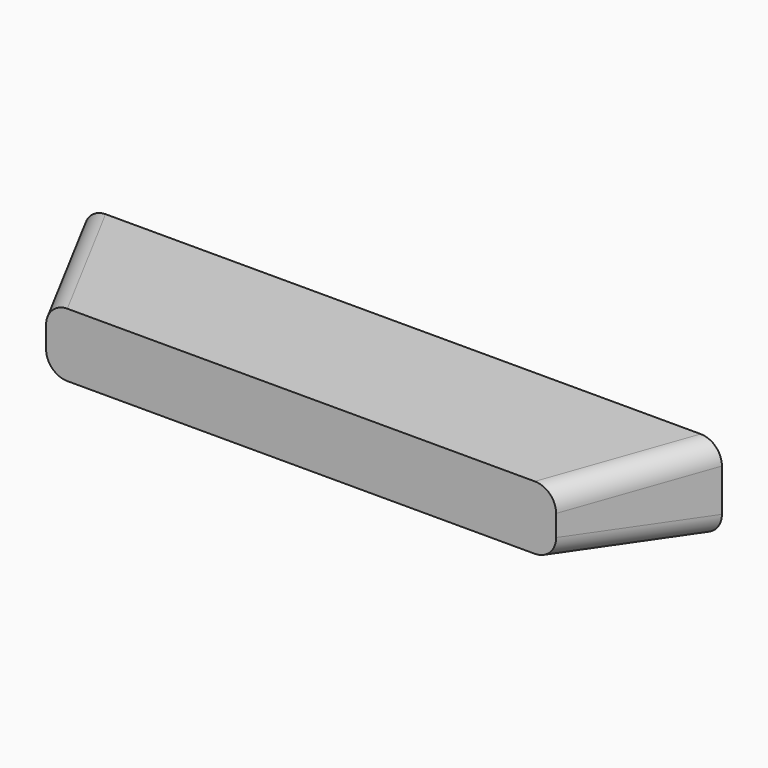
from build123d import *


with BuildPart() as f3:
    # F0 (on Front) → F3 section 0
    with BuildSketch(Plane.XZ):
        with BuildLine():
            ThreePointArc((19.05, 1.27), (18.678026, 2.168026), (17.78, 2.54))
            Line((17.78, 2.54), (-17.78, 2.54))
            ThreePointArc((-17.78, 2.54), (-18.678026, 2.168026), (-19.05, 1.27))
            Line((-19.05, 1.27), (-19.05, -1.27))
            ThreePointArc((-19.05, -1.27), (-18.678026, -2.168026), (-17.78, -2.54))
            Line((-17.78, -2.54), (17.78, -2.54))
            ThreePointArc((17.78, -2.54), (18.678026, -2.168026), (19.05, -1.27))
            Line((19.05, -1.27), (19.05, 1.27))
        make_face()
    # F2 (on offset) → F3 section 1
    with BuildSketch(Plane.XZ.offset(7.62)):
        with BuildLine():
            ThreePointArc((15.24, 0.635), (14.868026, 1.533026), (13.97, 1.905))
            Line((13.97, 1.905), (-13.97, 1.905))
            ThreePointArc((-13.97, 1.905), (-14.868026, 1.533026), (-15.24, 0.635))
            Line((-15.24, 0.635), (-15.24, -0.635))
            ThreePointArc((-15.24, -0.635), (-14.868026, -1.533026), (-13.97, -1.905))
            Line((-13.97, -1.905), (13.97, -1.905))
            ThreePointArc((13.97, -1.905), (14.868026, -1.533026), (15.24, -0.635))
            Line((15.24, -0.635), (15.24, 0.635))
        make_face()
    loft()


solid = f3.part
